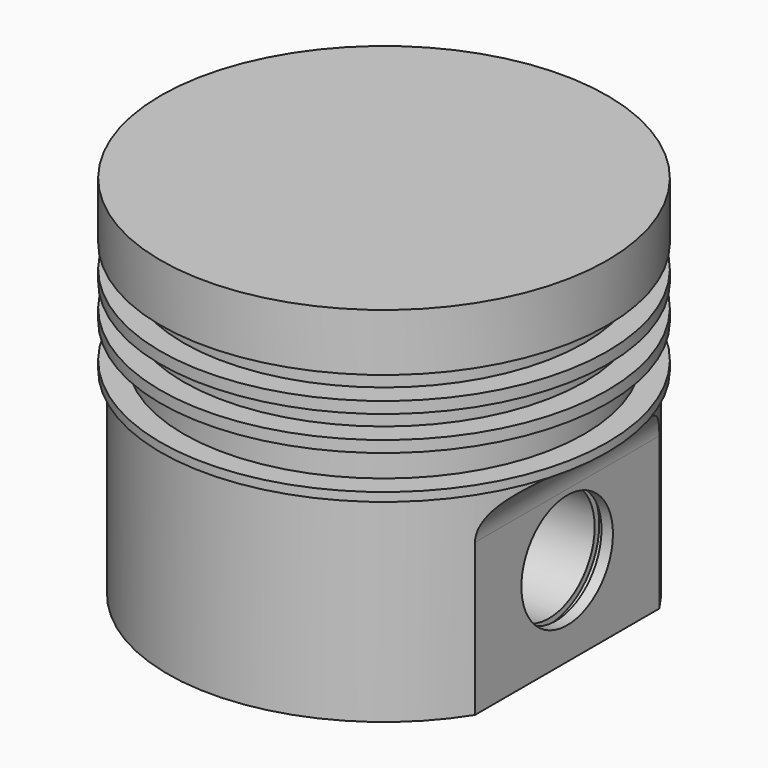
from build123d import *

# Parameters (mm, degrees)
F0_R      = 4.875
F1_DEPTH  = 7
F3_DEPTH  = 5
F4_R      = 1.25
F5_DEPTH  = 5
F6_W      = 0.9999981817
F6_H      = 0.5
F6_W_2    = 1
F6_H_2    = 0.75
F6_W_3    = 0.65
F6_H_3    = 4.3095893331
F8_DEPTH  = 1
F10_R     = 1.375
F10_R_2   = 1.25
F11_DEPTH = 0.15
F13_R     = 1.375
F13_R_2   = 1.25
F14_DEPTH = 0.15


with BuildPart() as f1:
    # F0 (on Top) → F1 (new body)
    with BuildSketch(Plane.XY):
        Circle(F0_R)
    extrude(amount=F1_DEPTH)

    # F2 (on Front) → F3 (cut, symmetric)
    with BuildSketch(Plane.XZ):
        with BuildLine():
            Line((-4, 0), (-4, 3.3174325915))
            ThreePointArc((-4, 3.3174325915), (-4.2928932188, 4.0245393727), (-5, 4.3174325915))
            Line((-5, 4.3174325915), (-5, 0))
            Line((-5, 0), (-4, 0))
        make_face()
        with BuildLine():
            ThreePointArc((5, 4.3174325915), (4.2928932188, 4.0245393727), (4, 3.3174325915))
            Line((4, 3.3174325915), (4, 0))
            Line((4, 0), (5, 0))
            Line((5, 0), (5, 4.3174325915))
        make_face()
    extrude(amount=F3_DEPTH, both=True, mode=Mode.SUBTRACT)

    # F4 (on Right) → F5 (cut, symmetric)
    with BuildSketch(Plane.YZ):
        with Locations((0, 1.9518149326)):
            Circle(F4_R)
    extrude(amount=F5_DEPTH, both=True, mode=Mode.SUBTRACT)

    # F6 (on Front) → F7 (revolve, cut)
    with BuildSketch(Plane.XZ):
        with Locations((4.875, 6.5)):
            Rectangle(F6_W, F6_H)
        with Locations((4.875, 5.75)):
            Rectangle(F6_W_2, F6_H)
        with Locations((4.875, 4.875)):
            Rectangle(F6_W_2, F6_H_2)
        with Locations((5.05, 2.1547946666)):
            Rectangle(F6_W_3, F6_H_3)
    revolve(axis=Axis((0, 0, 3.6421683617), (0, 0, 1)), mode=Mode.SUBTRACT)

    # F8 (add): a face of the model
    f8_faces = [f1.faces().sort_by_distance(p)[0] for p in [
        (0, 0, 7),
    ]]
    extrude(f8_faces, amount=F8_DEPTH)

    # F10 (on offset) → F11 (cut)
    with BuildSketch(Plane.YZ.offset(3.75)):
        with Locations((0, 1.9518149326)):
            Circle(F10_R)
        with Locations((0, 1.9518149326)):
            Circle(F10_R_2, mode=Mode.SUBTRACT)
    extrude(amount=-F11_DEPTH, mode=Mode.SUBTRACT)

    # F13 (on offset) → F14 (cut)
    with BuildSketch(Plane(origin=(-3.75, 0, 0), x_dir=(0, -1, 0), z_dir=(-1, 0, 0))):
        with Locations((0, 1.9518149326)):
            Circle(F13_R)
        with Locations((0, 1.9518149326)):
            Circle(F13_R_2, mode=Mode.SUBTRACT)
    extrude(amount=-F14_DEPTH, mode=Mode.SUBTRACT)


solid = f1.part
